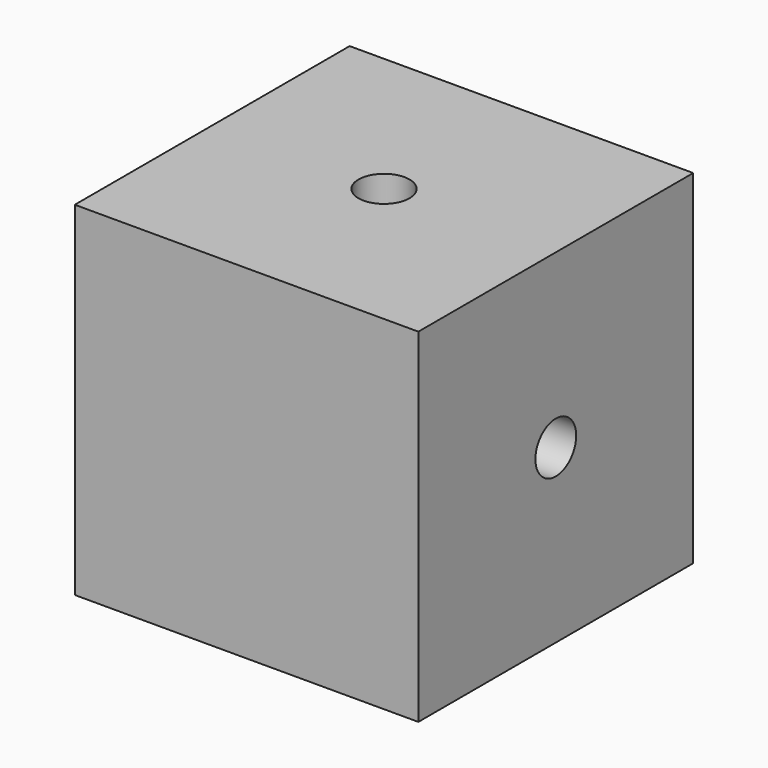
from build123d import *

# Parameters (mm, degrees)
F0_W     = 15.24
F0_H     = 15.24
F1_DEPTH = 7.62
F3_D     = 2.2606
F3_DEPTH = 6.35
F3_TIP   = 0.6791527577
F6_D     = 2.2606
F6_DEPTH = 6.35
F6_TIP   = 0.6791527577
F7_D     = 2.2606
F7_DEPTH = 6.35
F7_TIP   = 0.6791527577


with BuildPart() as f1:
    # F0 (on Top) → F1 (new body, symmetric)
    with BuildSketch(Plane.XY):
        Rectangle(F0_W, F0_H)
    extrude(amount=F1_DEPTH, both=True)

    # F3
    with Locations(Plane.YZ.offset(7.62)):
        with Locations((0, 0)):
            Hole(F3_D / 2, depth=F3_DEPTH)
            with Locations((0, 0, -(F3_DEPTH + F3_TIP / 2))):  # 118° drill point
                Cone(0, F3_D / 2, F3_TIP, mode=Mode.SUBTRACT)

    # F6
    with Locations(Plane.XY.offset(7.62)):
        with Locations((0, 0)):
            Hole(F6_D / 2, depth=F6_DEPTH)
            with Locations((0, 0, -(F6_DEPTH + F6_TIP / 2))):  # 118° drill point
                Cone(0, F6_D / 2, F6_TIP, mode=Mode.SUBTRACT)

    # F7
    with Locations(Plane(origin=(0, 7.62, 0), x_dir=(-1, 0, 0), z_dir=(0, 1, 0))):
        with Locations((0, 0)):
            Hole(F7_D / 2, depth=F7_DEPTH)
            with Locations((0, 0, -(F7_DEPTH + F7_TIP / 2))):  # 118° drill point
                Cone(0, F7_D / 2, F7_TIP, mode=Mode.SUBTRACT)


solid = f1.part
